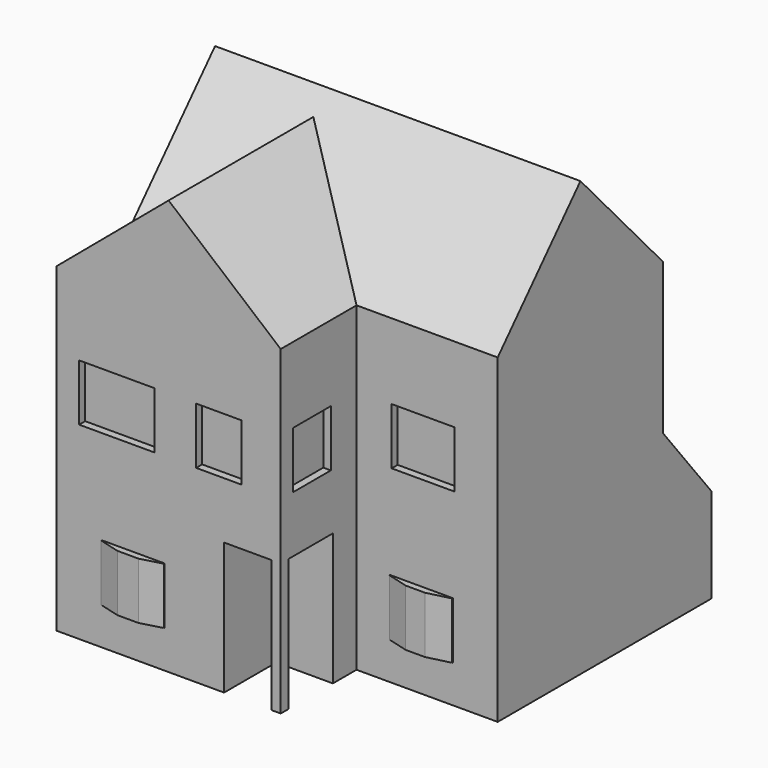
from build123d import *

# Parameters (mm, degrees)
F0_W      = 3.81
F0_H      = 6.35
F0_W_2    = 91.186
F0_H_2    = 125.476
F0_H_3    = 35.306
F0_W_3    = 52.324
F0_W_4    = 82.042
F0_W_5    = 85.852
F0_H_4    = 42.418
F0_H_5    = 143.002
F0_H_6    = 3.81
F1_DEPTH  = 114.3
F2_SIZE2  = 40.64
F2_SIZE   = 50.8
F4_DEPTH  = 101.6
F6_DEPTH  = 245.872
F8_DEPTH  = 133.35
F9_W      = 38.1
F9_H      = 43.866105608
F10_DEPTH = 88.9
F11_W     = 6.35
F11_H     = 6.35
F12_DEPTH = 88.9
F13_W     = 42.164
F13_H     = 38.1
F14_DEPTH = 4.318
F15_SIZE2 = 3.81
F15_SIZE  = 15.24
F16_SIZE2 = 13.97
F16_SIZE  = 3.81
F17_DEPTH = 5.08
F18_W     = 42.164
F18_H     = 38.1
F19_DEPTH = 4.318
F20_SIZE2 = 13.97
F20_SIZE  = 3.81
F21_SIZE2 = 13.97
F21_SIZE  = 3.81
F18_W_2   = 50.8
F22_DEPTH = 5.08
F18_W_3   = 30.48
F23_DEPTH = 5.08
F24_W     = 31.75
F24_H     = 38.1
F25_DEPTH = 5.08


with BuildPart() as f1:
    # F0 (on Top) → F1 (new body)
    with BuildSketch(Plane.XY):
        Polygon((150.876, 63.754), (245.872, 63.754), (245.872, 243.586), (0, 243.586), (0, 0), (150.876, 0), align=None)
        Polygon((6.35, 201.93), (6.35, 237.236), (88.392, 237.236), (92.202, 237.236), (144.526, 237.236), (148.336, 237.236), (239.522, 237.236), (239.522, 201.93), (239.522, 195.58), (239.522, 70.104), (148.336, 70.104), (144.526, 70.104), (144.526, 6.35), (96.012, 6.35), (92.202, 6.35), (6.35, 6.35), (6.35, 149.352), (6.35, 153.162), (6.35, 195.58), align=None, mode=Mode.SUBTRACT)
        with Locations((146.431, 198.755)):
            Rectangle(F0_W, F0_H)
        with Locations((193.929, 132.842)):
            Rectangle(F0_W_2, F0_H_2)
        with Locations((193.929, 219.583)):
            Rectangle(F0_W_2, F0_H_3)
        with Locations((118.364, 219.583)):
            Rectangle(F0_W_3, F0_H_3)
        with Locations((47.371, 219.583)):
            Rectangle(F0_W_4, F0_H_3)
        with Locations((49.276, 174.371)):
            Rectangle(F0_W_5, F0_H_4)
        Polygon((144.526, 195.58), (96.012, 195.58), (96.012, 6.35), (144.526, 6.35), (144.526, 70.104), align=None)
        with Locations((146.431, 132.842)):
            Rectangle(F0_W, F0_H_2)
        with Locations((49.276, 77.851)):
            Rectangle(F0_W_5, F0_H_5)
        Polygon((96.012, 195.58), (92.202, 195.58), (92.202, 153.162), (92.202, 149.352), (92.202, 6.35), (96.012, 6.35), align=None)
        with Locations((49.276, 151.257)):
            Rectangle(F0_W_5, F0_H_6)
        with Locations((193.929, 198.755)):
            Rectangle(F0_W_2, F0_H)
        Polygon((88.392, 201.93), (6.35, 201.93), (6.35, 195.58), (92.202, 195.58), (96.012, 195.58), (144.526, 195.58), (144.526, 201.93), (92.202, 201.93), align=None)
        with Locations((146.431, 219.583)):
            Rectangle(F0_W, F0_H_3)
        with Locations((90.297, 219.583)):
            Rectangle(F0_W, F0_H_3)
    extrude(amount=F1_DEPTH)

    # F2
    f2_edges = [f1.edges().sort_by_distance(p)[0] for p in [
        (122.936, 243.586, 114.3),
    ]]
    f2_side = f1.faces().sort_by_distance((122.936, 243.586, 57.15))[0]
    chamfer(f2_edges, length=F2_SIZE, length2=F2_SIZE2, reference=f2_side)

    # F3 (on face) → F4 (join)
    with BuildSketch(Plane.XY.offset(114.3)):
        Polygon((5.8203e-06, 0), (150.876, 0), (150.876, 63.754), (245.872, 63.754), (245.872, 202.946), (5.8203e-06, 202.946), align=None)
    extrude(amount=F4_DEPTH)

    # F5 (on face) → F6 (join, through all)
    with BuildSketch(Plane.YZ.offset(245.872)):
        Polygon((133.35, 292.1), (63.754, 215.9), (202.946, 215.9), align=None)
    extrude(amount=-F6_DEPTH)

    # F7 (on face) → F8 (join, through all)
    with BuildSketch(Plane.XZ):
        Polygon((75.438, 279.4), (0, 215.9), (150.876, 215.9), align=None)
    extrude(amount=-F8_DEPTH)

    # F9 (on face) → F10 (cut)
    with BuildSketch(Plane(origin=(0, 0, 0), x_dir=(1, 0, 0), z_dir=(0, 0, -1))):
        with Locations((131.826, -21.933052804)):
            Rectangle(F9_W, F9_H)
    extrude(amount=-F10_DEPTH, mode=Mode.SUBTRACT)

    # F11 (on face) → F12 (join, through all)
    with BuildSketch(Plane(origin=(0, 0, 88.9), x_dir=(1, 0, 0), z_dir=(0, 0, -1))):
        with Locations((147.701, -3.175)):
            Rectangle(F11_W, F11_H)
    extrude(amount=F12_DEPTH)

    # F13 (on face) → F14 (join)
    with BuildSketch(Plane.XZ.offset(-63.754)):
        with Locations((194.564, 44.45)):
            Rectangle(F13_W, F13_H)
    extrude(amount=F14_DEPTH)

    # F15
    f15_edges = [f1.edges().sort_by_distance(p)[0] for p in [
        (215.646, 59.436, 44.45),
    ]]
    f15_side = f1.faces().sort_by_distance((194.564, 59.436, 44.45))[0]
    chamfer(f15_edges, length=F15_SIZE, length2=F15_SIZE2, reference=f15_side)

    # F16
    f16_edges = [f1.edges().sort_by_distance(p)[0] for p in [
        (173.482, 59.436, 44.45),
    ]]
    f16_side = f1.faces().sort_by_distance((173.482, 61.595, 44.45))[0]
    chamfer(f16_edges, length=F16_SIZE, length2=F16_SIZE2, reference=f16_side)

    # F13 (on face) → F17 (cut)
    with BuildSketch(Plane.XZ.offset(-63.754)):
        with Locations((195.58, 146.05)):
            Rectangle(F13_W, F13_H)
    extrude(amount=-F17_DEPTH, mode=Mode.SUBTRACT)

    # F18 (on face) → F19 (join)
    with BuildSketch(Plane.XZ):
        with Locations((51.562, 44.45)):
            Rectangle(F18_W, F18_H)
    extrude(amount=F19_DEPTH)

    # F20
    f20_edges = [f1.edges().sort_by_distance(p)[0] for p in [
        (72.644, -4.318, 44.45),
    ]]
    f20_side = f1.faces().sort_by_distance((72.644, -2.159, 44.45))[0]
    chamfer(f20_edges, length=F20_SIZE, length2=F20_SIZE2, reference=f20_side)

    # F21
    f21_edges = [f1.edges().sort_by_distance(p)[0] for p in [
        (30.48, -4.318, 44.45),
    ]]
    f21_side = f1.faces().sort_by_distance((30.48, -2.159, 44.45))[0]
    chamfer(f21_edges, length=F21_SIZE, length2=F21_SIZE2, reference=f21_side)

    # F18 (on face) → F22 (cut)
    with BuildSketch(Plane.XZ):
        with Locations((40.64, 146.05)):
            Rectangle(F18_W_2, F18_H)
    extrude(amount=-F22_DEPTH, mode=Mode.SUBTRACT)

    # F18 (on face) → F23 (cut)
    with BuildSketch(Plane.XZ):
        with Locations((109.22, 146.05)):
            Rectangle(F18_W_3, F18_H)
    extrude(amount=-F23_DEPTH, mode=Mode.SUBTRACT)

    # F24 (on face) → F25 (cut)
    with BuildSketch(Plane.YZ.offset(150.876)):
        with Locations((26.289, 145.9290999826)):
            Rectangle(F24_W, F24_H)
    extrude(amount=-F25_DEPTH, mode=Mode.SUBTRACT)


solid = f1.part
